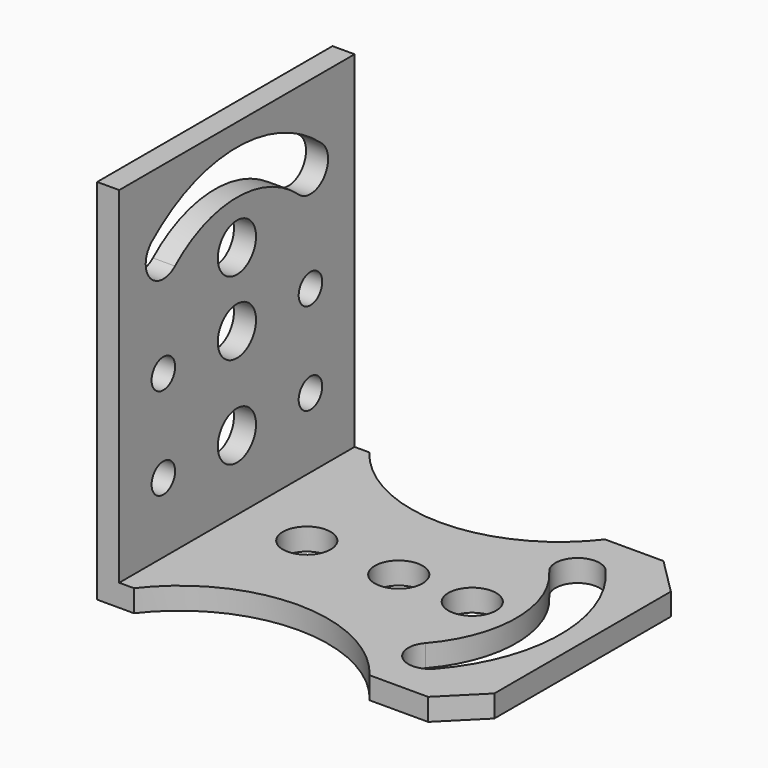
from build123d import *

# Parameters (mm, degrees)
F1_DEPTH  = 40
F2_R      = 3.25
F3_DEPTH  = 25
F4_R      = 3.25
F4_R_2    = 2
F5_DEPTH  = 25
F6_SIZE   = 5
F7_SIZE   = 5
F8_DEPTH  = 25
F9_W      = 50.789644
F9_H      = 57.590966
F10_DEPTH = 51.1


with BuildPart() as f1:
    # F0 (on Front) → F1 (new body)
    with BuildSketch(Plane.XZ):
        Polygon((0, 50), (0, 0), (50, 0), (50, 5), (5, 5), (5, 50), align=None)
    extrude(amount=F1_DEPTH)

    # F2 (on face) → F3 (cut)
    with BuildSketch(Plane(origin=(0, 0, 0), x_dir=(1, 0, 0), z_dir=(0, 0, -1))):
        with Locations((25, 20)):
            Circle(F2_R)
        with BuildLine():
            ThreePointArc((37.049758, 30.526316), (41, 20), (37.049758, 9.473684))
            ThreePointArc((37.049758, 9.473684), (37.335405, 5.240671), (41.568419, 5.526317))
            ThreePointArc((41.568419, 5.526317), (47, 20.000001), (41.568418, 34.473684))
            ThreePointArc((41.568418, 34.473684), (37.335404, 34.75933), (37.049758, 30.526316))
        make_face()
        with Locations((12.5, 20)):
            Circle(F2_R)
        with Locations((35, 20)):
            Circle(F2_R)
        with BuildLine():
            Line((26.554622, -9.521332), (37.049758, 0))
            ThreePointArc((37.049758, 0), (21.024879, 7.89477), (5, 0))
            Line((5, 0), (26.554622, -9.521332))
        make_face()
        with BuildLine():
            Line((21.024879, 52.316344), (5, 40))
            ThreePointArc((5, 40), (21.024879, 32.105231), (37.049758, 40))
            Line((37.049758, 40), (21.024879, 52.316344))
        make_face()
    extrude(amount=-F3_DEPTH, mode=Mode.SUBTRACT)

    # F4 (on face) → F5 (cut)
    with BuildSketch(Plane(origin=(0, 0, 0), x_dir=(0, -1, 0), z_dir=(-1, 0, 0))):
        with Locations((20, 12.5)):
            Circle(F4_R)
        with Locations((20, 25)):
            Circle(F4_R)
        with Locations((20, 35)):
            Circle(F4_R)
        with BuildLine():
            ThreePointArc((9.473684, 37.049758), (20, 41), (30.526316, 37.049758))
            ThreePointArc((30.526316, 37.049758), (34.75933, 37.335404), (34.473684, 41.568418))
            ThreePointArc((34.473684, 41.568418), (20, 47), (5.526316, 41.568418))
            ThreePointArc((5.526316, 41.568418), (5.24067, 37.335404), (9.473684, 37.049758))
        make_face()
        with Locations((32.5, 12.5)):
            Circle(F4_R_2)
        with Locations((32.5, 25)):
            Circle(F4_R_2)
        with Locations((7.5, 25)):
            Circle(F4_R_2)
        with Locations((7.5, 12.5)):
            Circle(F4_R_2)
    extrude(amount=-F5_DEPTH, mode=Mode.SUBTRACT)

    # F6
    f6_edges = [f1.edges().sort_by_distance(p)[0] for p in [
        (50, -40, 2.5),
    ]]
    chamfer(f6_edges, length=F6_SIZE)

    # F7
    f7_edges = [f1.edges().sort_by_distance(p)[0] for p in [
        (50, 0, 2.5),
    ]]
    chamfer(f7_edges, length=F7_SIZE)

    # F2 (on face) → F8 (cut)
    with BuildSketch(Plane(origin=(0, 0, 0), x_dir=(1, 0, 0), z_dir=(0, 0, -1))):
        with Locations((25, 20)):
            Circle(F2_R)
        with BuildLine():
            ThreePointArc((37.049758, 30.526316), (41, 20), (37.049758, 9.473684))
            ThreePointArc((37.049758, 9.473684), (37.335405, 5.240671), (41.568419, 5.526317))
            ThreePointArc((41.568419, 5.526317), (47, 20.000001), (41.568418, 34.473684))
            ThreePointArc((41.568418, 34.473684), (37.335404, 34.75933), (37.049758, 30.526316))
        make_face()
        with Locations((12.5, 20)):
            Circle(F2_R)
        with Locations((35, 20)):
            Circle(F2_R)
        with BuildLine():
            Line((26.554622, -9.521332), (37.049758, 0))
            ThreePointArc((37.049758, 0), (21.024879, 7.89477), (5, 0))
            Line((5, 0), (26.554622, -9.521332))
        make_face()
        with BuildLine():
            Line((21.024879, 52.316344), (5, 40))
            ThreePointArc((5, 40), (21.024879, 32.105231), (37.049758, 40))
            Line((37.049758, 40), (21.024879, 52.316344))
        make_face()
    extrude(amount=F8_DEPTH, mode=Mode.SUBTRACT)

    # F9 (on face) → F10 (cut)
    with BuildSketch(Plane.XZ.offset(40)):
        with Locations((28.394822, 31.795483)):
            Rectangle(F9_W, F9_H)
    extrude(amount=-F10_DEPTH, mode=Mode.SUBTRACT)


solid = f1.part
